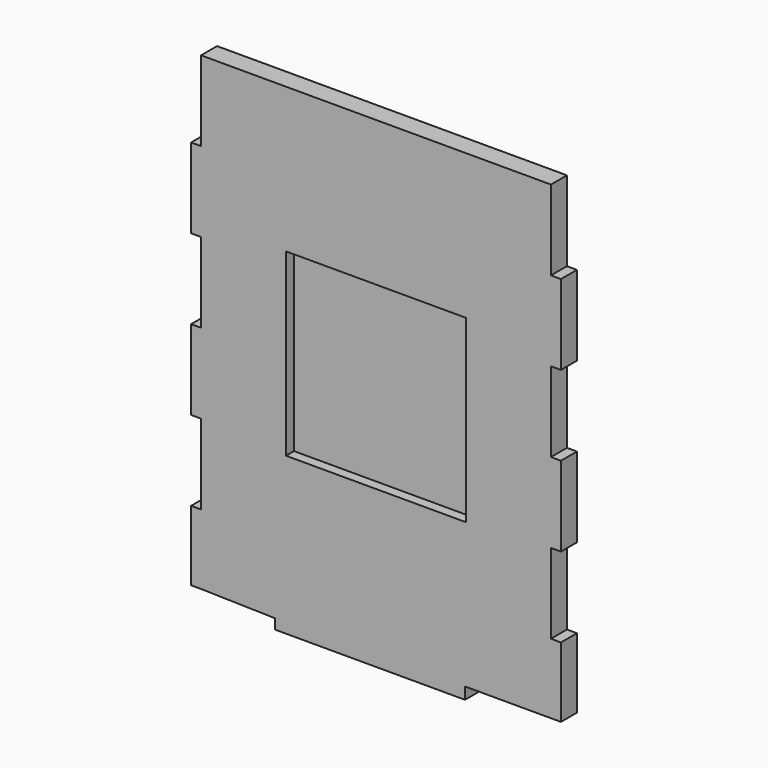
from build123d import *

# Parameters (mm, degrees)
F0_W     = 12.7
F0_H     = 101.6
F0_H_2   = 88.9
F1_DEPTH = 25.4
F0_W_2   = 114.3
F0_H_3   = 228.6
F2_DEPTH = 12.7


with BuildPart() as f1:
    # F0 (on Front) → F1 (new body)
    with BuildSketch(Plane.XZ):
        Polygon((0, 298.45), (-222.25, 298.45), (-222.25, 196.85), (-222.25, 95.25), (-222.25, -6.35), (-222.25, -107.95), (-222.25, -209.55), (-222.25, -298.45), (0, -298.45), (0, -114.3), (-114.3, -114.3), (-114.3, 114.3), (0, 114.3), align=None)
        Polygon((222.25, 298.45), (0, 298.45), (0, 114.3), (114.3, 114.3), (114.3, -114.3), (0, -114.3), (0, -298.45), (113.073296, -298.45), (222.25, -298.45), (222.25, -209.55), (222.25, -107.95), (222.25, -6.35), (222.25, 95.25), (222.25, 196.85), align=None)
        with Locations((-228.6, 146.05)):
            Rectangle(F0_W, F0_H)
        with Locations((228.6, 146.05)):
            Rectangle(F0_W, F0_H)
        with Locations((-228.6, -57.15)):
            Rectangle(F0_W, F0_H)
        Polygon((113.073296, -298.45), (0, -298.45), (-222.25, -298.45), (-128.226704, -300.658281), (-128.226704, -313.358281), (113.073296, -313.358281), align=None)
        with Locations((228.6, -57.15)):
            Rectangle(F0_W, F0_H)
        with Locations((-228.6, -254)):
            Rectangle(F0_W, F0_H_2)
        with Locations((228.6, -254)):
            Rectangle(F0_W, F0_H_2)
    extrude(amount=F1_DEPTH)

    # F0 (on Front) → F2 (join)
    with BuildSketch(Plane.XZ):
        with Locations((-57.15, 0)):
            Rectangle(F0_W_2, F0_H_3)
        with Locations((57.15, 0)):
            Rectangle(F0_W_2, F0_H_3)
    extrude(amount=F2_DEPTH)


solid = f1.part
